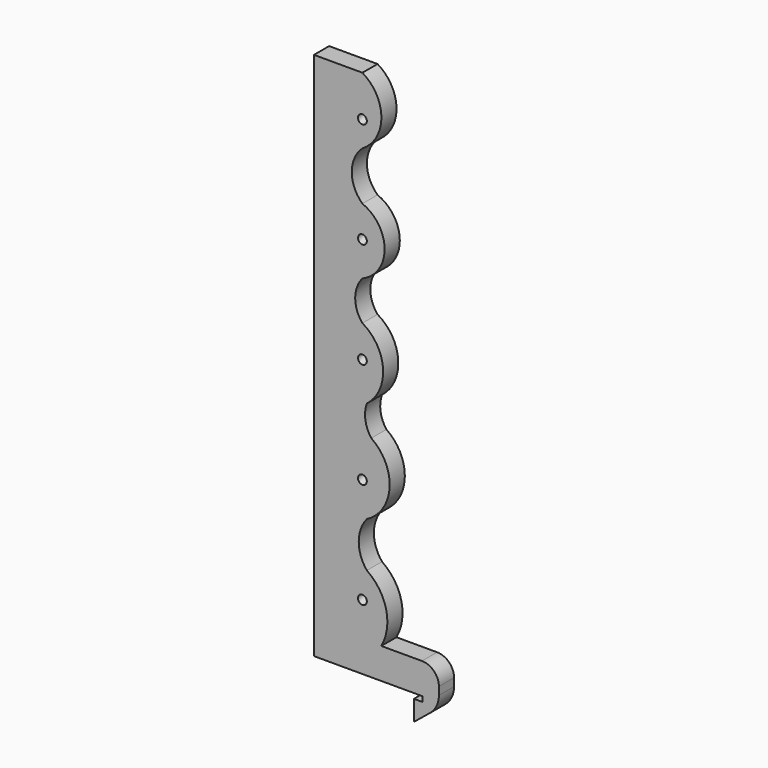
from build123d import *

# Parameters (mm, degrees)
F11_DEPTH = 5.59188
F6_R      = 1.3
F10_R     = 1.3
F9_R      = 1.3
F8_R      = 1.3
F7_R      = 1.3
F12_DEPTH = 12.5
F13_R     = 5
F14_R     = 7


with BuildPart() as f11:
    # F0 (on Front) → F11 (new body)
    with BuildSketch(Plane.XZ):
        with BuildLine():
            Line((-4.6259572574, 125.4466459383), (-18.9259572574, 125.4466459383))
            Line((-18.9259572574, 125.4466459383), (-18.9259572574, -30.7533540617))
            Line((-18.9259572574, -30.7533540617), (13.0740427426, -30.7533540617))
            Line((13.0740427426, -30.7533540617), (13.0740427426, -32.2533540617))
            Line((13.0740427426, -32.2533540617), (10.5740427426, -32.2533540617))
            Line((10.5740427426, -32.2533540617), (10.5740427426, -38.2533540617))
            Line((10.5740427426, -38.2533540617), (17.9395026739, -32.2533540617))
            Line((17.9395026739, -32.2533540617), (17.9395026739, -21.6533540617))
            Line((17.9395026739, -21.6533540617), (0.9395026739, -21.6533540617))
            ThreePointArc((0.9395026739, -21.6533540617), (2.3818043878, -11.7029252546), (-3.3089759276, -3.413999686))
            ThreePointArc((-3.3089759276, -3.413999686), (-5.7123935665, 3.262952785), (-3.3089759276, 9.939905256))
            ThreePointArc((-3.3089759276, 9.939905256), (3.3934420485, 20.2845633982), (-2.0037802352, 31.3662758301))
            ThreePointArc((-2.0037802352, 31.3662758301), (-3.7485817849, 35.5000324433), (-3.3089759276, 39.9653457441))
            ThreePointArc((-3.3089759276, 39.9653457441), (1.4696935081, 50.5333149606), (-4.6259572574, 60.4004673705))
            ThreePointArc((-4.6259572574, 60.4004673705), (-6.7621279189, 66.2099556499), (-4.6259572574, 72.0194439292))
            ThreePointArc((-4.6259572574, 72.0194439292), (1.9308894563, 81.7293683887), (-4.6259572574, 91.4392928481))
            ThreePointArc((-4.6259572574, 91.4392928481), (-7.770265303, 98.6246365011), (-4.6259572574, 105.809980154))
            ThreePointArc((-4.6259572574, 105.809980154), (0.9684001504, 115.6283130462), (-4.6259572574, 125.4466459383))
        make_face()
    extrude(amount=F11_DEPTH)

    # F6 (on line) + F10 (on line) + F9 (on line) + F8 (on line) + F7 (on line) → F12 (cut, symmetric)
    with BuildSketch(Plane(origin=(0, -2.2683734534, -0.5349668297), x_dir=(-1, 0, 0), z_dir=(0, 0.9732991931, 0.2295401504))):
        with Locations((4.6259572574, -9.8822513158)):
            Circle(F6_R)
    with BuildSketch(Plane(origin=(0, 25.6133496961, 6.0405805155), x_dir=(-1, 0, 0), z_dir=(0, 0.9732991931, 0.2295401504))):
        with Locations((4.6259572574, 111.5854879869)):
            Circle(F10_R)
    with BuildSketch(Plane(origin=(0, 18.6429189088, 4.3966936792), x_dir=(-1, 0, 0), z_dir=(0, 0.9732991931, 0.2295401504))):
        with Locations((4.6259572574, 81.2185531612)):
            Circle(F9_R)
    with BuildSketch(Plane(origin=(0, 11.6724881214, 2.7528068429), x_dir=(-1, 0, 0), z_dir=(0, 0.9732991931, 0.2295401504))):
        with Locations((4.6259572574, 50.8516183356)):
            Circle(F8_R)
    with BuildSketch(Plane(origin=(0, 4.702057334, 1.1089200066), x_dir=(-1, 0, 0), z_dir=(0, 0.9732991931, 0.2295401504))):
        with Locations((4.6259572574, 20.4846835099)):
            Circle(F7_R)
    extrude(amount=F12_DEPTH, both=True, mode=Mode.SUBTRACT)

    # F13
    f13_edges = [f11.edges().sort_by_distance(p)[0] for p in [
        (17.939503, -2.79594, -21.653354),
    ]]
    fillet(f13_edges, radius=F13_R)

    # F14
    f14_edges = [f11.edges().sort_by_distance(p)[0] for p in [
        (17.939503, -2.79594, -32.253354),
    ]]
    fillet(f14_edges, radius=F14_R)


solid = f11.part
